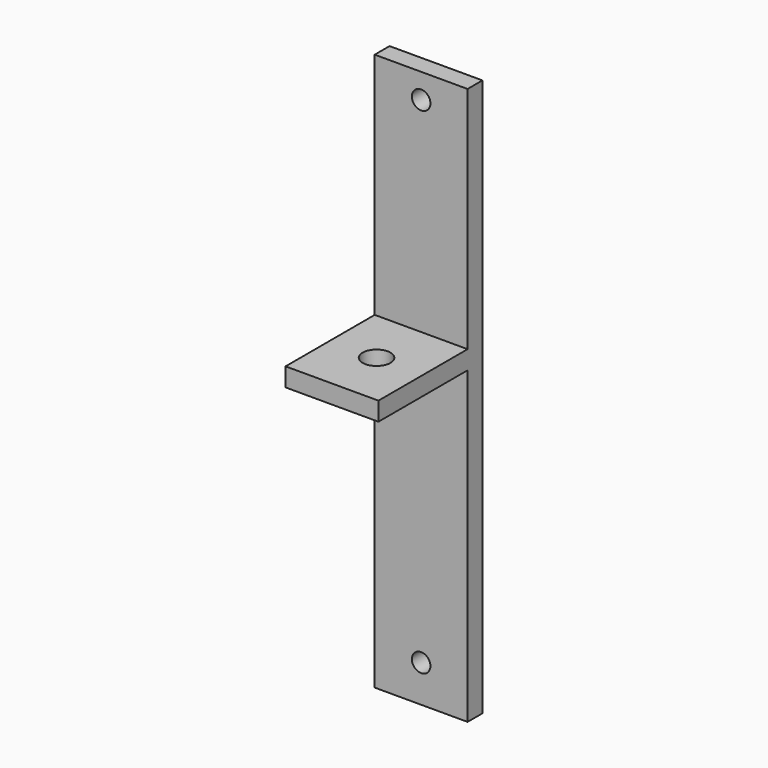
from build123d import *

# Parameters (mm, degrees)
F0_W     = 15
F0_H     = 90
F0_R     = 1.5
F1_DEPTH = 3
F2_W     = 15
F2_H     = 3
F3_DEPTH = 18
F4_R     = 2.25
F5_DEPTH = 53.001


with BuildPart() as f1:
    # F0 (on Front) → F1 (new body)
    with BuildSketch(Plane.XZ):
        Rectangle(F0_W, F0_H)
        with Locations((0, -39)):
            Circle(F0_R, mode=Mode.SUBTRACT)
        with Locations((0, 41)):
            Circle(F0_R, mode=Mode.SUBTRACT)
    extrude(amount=F1_DEPTH)

    # F2 (on face) → F3 (join)
    with BuildSketch(Plane.XZ.offset(3)):
        with Locations((0, 6.5)):
            Rectangle(F2_W, F2_H)
    extrude(amount=F3_DEPTH)

    # F4 (on face) → F5 (cut, through all)
    with BuildSketch(Plane.XY.offset(8)):
        with Locations((0, -12)):
            Circle(F4_R)
    extrude(amount=-F5_DEPTH, mode=Mode.SUBTRACT)


solid = f1.part
